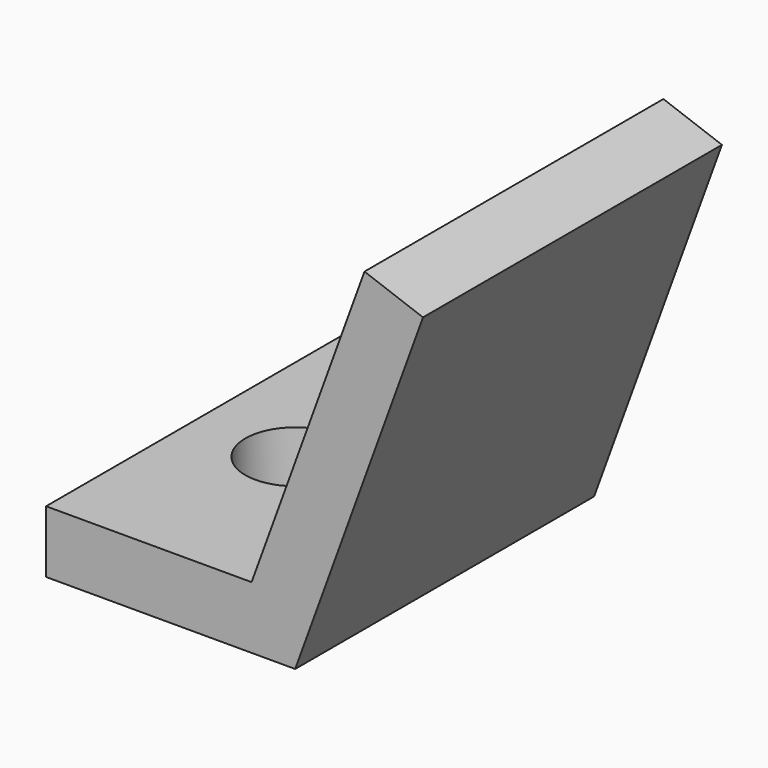
from build123d import *

# Parameters (mm, degrees)
F1_DEPTH = 15
F2_R     = 4
F3_DEPTH = 25


with BuildPart() as f1:
    # F0 (on Front) → F1 (new body, symmetric)
    with BuildSketch(Plane.XZ):
        Polygon((-50, 5), (-50, 0), (-30, 0), (-19.739396, 28.190779), (-24.437859, 29.900879), (-33.501038, 5), align=None)
    extrude(amount=F1_DEPTH, both=True)

    # F2 (on face) → F3 (cut)
    with BuildSketch(Plane.XY.offset(5)):
        with Locations((-42, 0)):
            Circle(F2_R)
    extrude(amount=-F3_DEPTH, mode=Mode.SUBTRACT)


solid = f1.part
